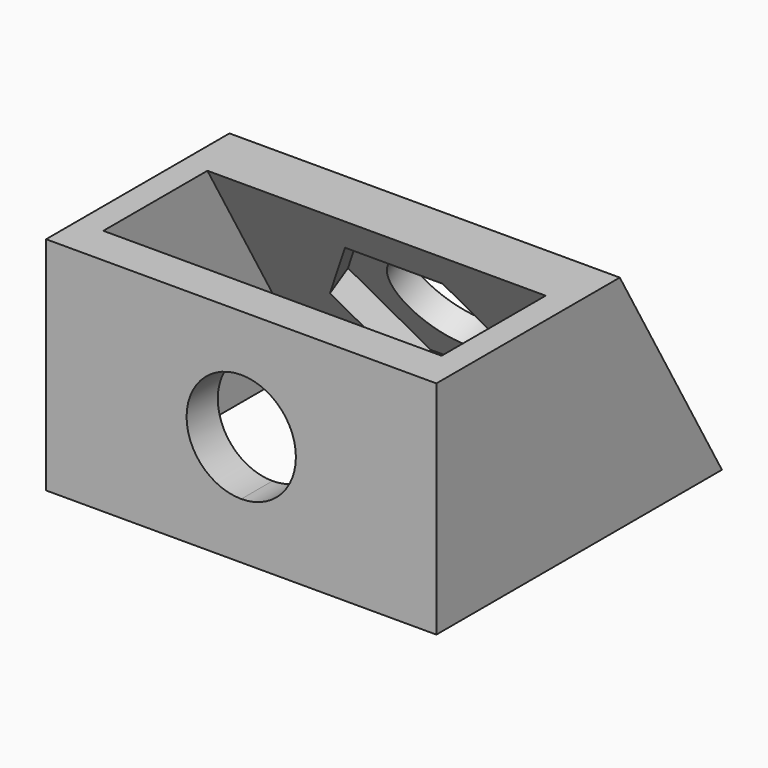
from build123d import *

# Parameters (mm, degrees)
PAD015_DEPTH    = 3
PAD016_DEPTH    = 2
PAD017_DEPTH    = 15
POCKET009_DEPTH = 5
POCKET010_DEPTH = 2


with BuildPart() as part:
    # Sketch031 → Pad015 (new body)
    with BuildSketch(Plane(origin=(0, 0, 0), x_dir=(-1, 0, 0), z_dir=(0, 1, 0))):
        with BuildLine():
            Line((15, 3.2565168385), (15, 20.2565168385))
            Line((15, 20.2565168385), (0, 20.2565168385))
            Line((0, 20.2565168385), (0, 15.9565168385))
            ThreePointArc((0, 7.5565168385), (4.2, 11.7565168385), (0, 15.9565168385))
            Line((0, 7.5565168385), (0, 3.2565168385))
            Line((0, 3.2565168385), (15, 3.2565168385))
        make_face()
    pad015 = extrude(amount=PAD015_DEPTH)

    # Sketch032 (on Face3 of Pad015) → Pad016 (join)
    with BuildSketch(Plane(origin=(-15, 0, 0), x_dir=(0, 0, -1), z_dir=(-1, 0, 0))):
        Polygon((-3.2565168385, -3), (-3.2565168385, -22.8149545762), (-20.2565168385, -13), (-20.2565168385, -3), align=None)
    pad016 = extrude(amount=-PAD016_DEPTH)

    # Sketch034 (on Face11 of Pad016) → Pad017 (join)
    with BuildSketch(Plane(origin=(-15, 0, 0), x_dir=(0, 0, -1), z_dir=(-1, 0, 0))):
        Polygon((-20.2565168385, -13), (-20.2565168385, -17.6188021535), (-3.2565168385, -27.4337567297), (-3.2565168385, -22.8149545762), align=None)
    pad017 = extrude(amount=-PAD017_DEPTH)

    # Sketch035 (on Face16 of Pad017) → Pocket009 (cut)
    with BuildSketch(Plane(origin=(0, 21.9854307023, 12.6932943342), x_dir=(1, 0, 0), z_dir=(0, 0.8660254038, 0.5))):
        with BuildLine():
            ThreePointArc((0, 2.9722964019), (-4.2, -1.2277035981), (0, -5.4277035981))
            Line((0, -5.4277035981), (0, 2.9722964019))
        make_face()
    pocket009 = extrude(amount=-POCKET009_DEPTH, mode=Mode.SUBTRACT)

    # Sketch036 (on Face14 of Pocket009) → Pocket010 (cut)
    with BuildSketch(Plane(origin=(0, 18.5213290872, 10.6932943342), x_dir=(1, 0, 0), z_dir=(0, -0.8660254038, -0.5))):
        Polygon((3.7527767497, 7.7277035981), (-3.7527767497, 7.7277035981), (-7.5055534995, 1.2277035981), (-3.7527767497, -5.2722964019), (3.7527767497, -5.2722964019), (7.5055534995, 1.2277035981), align=None)
    pocket010 = extrude(amount=-POCKET010_DEPTH, mode=Mode.SUBTRACT)

    # Mirrored008: Pad015, Pad016, Pad017, Pocket009, Pocket010 across Sketch031 V_Axis
    add(pad015.mirror(Plane(origin=(0, 0, 0), x_dir=(0, 1, 0), z_dir=(-1, 0, 0))))
    add(pad016.mirror(Plane(origin=(0, 0, 0), x_dir=(0, 1, 0), z_dir=(-1, 0, 0))))
    add(pad017.mirror(Plane(origin=(0, 0, 0), x_dir=(0, 1, 0), z_dir=(-1, 0, 0))))
    add(pocket009.mirror(Plane(origin=(0, 0, 0), x_dir=(0, 1, 0), z_dir=(-1, 0, 0))), mode=Mode.SUBTRACT)
    add(pocket010.mirror(Plane(origin=(0, 0, 0), x_dir=(0, 1, 0), z_dir=(-1, 0, 0))), mode=Mode.SUBTRACT)


solid = part.part
